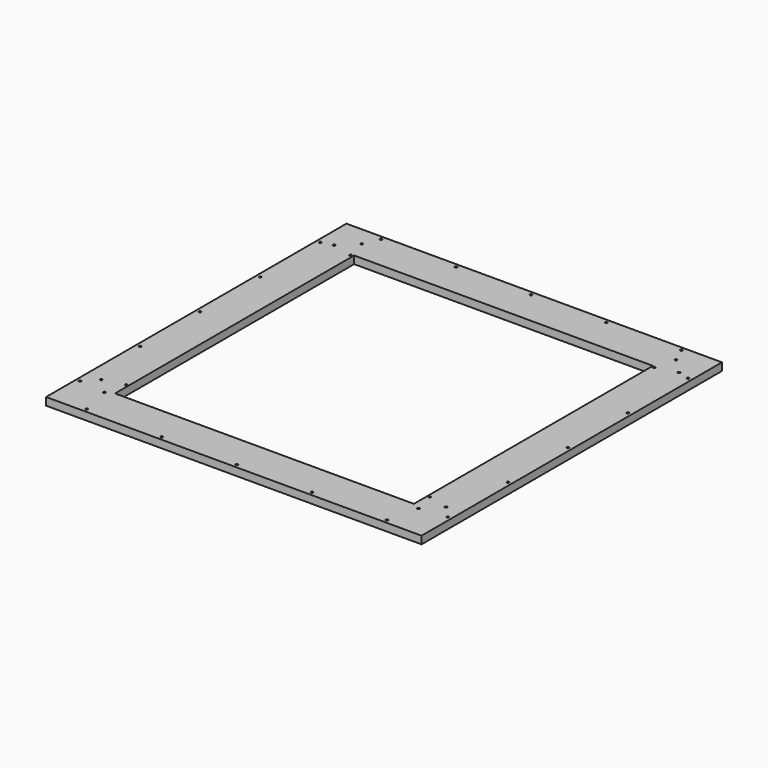
from build123d import *

# Parameters (mm, degrees)
F0_R     = 1.5
F0_W     = 390
F0_H     = 390
F0_W_2   = 10
F0_H_2   = 10
F1_DEPTH = 10


with BuildPart() as f1:
    # F0 (on Top) → F1 (new body)
    with BuildSketch(Plane.XY):
        Polygon((-10, -40), (-40, -40), (-40, -50), (440, -50), (440, 430), (430, 430), (430, -40), (400, -40), align=None)
        with Locations((-1, -45)):
            Circle(F0_R, mode=Mode.SUBTRACT)
        with Locations((97, -45)):
            Circle(F0_R, mode=Mode.SUBTRACT)
        with Locations((195, -45)):
            Circle(F0_R, mode=Mode.SUBTRACT)
        with Locations((293, -45)):
            Circle(F0_R, mode=Mode.SUBTRACT)
        with Locations((391, -45)):
            Circle(F0_R, mode=Mode.SUBTRACT)
        with Locations((435, -1)):
            Circle(F0_R, mode=Mode.SUBTRACT)
        with Locations((435, 97)):
            Circle(F0_R, mode=Mode.SUBTRACT)
        with Locations((435, 195)):
            Circle(F0_R, mode=Mode.SUBTRACT)
        with Locations((435, 293)):
            Circle(F0_R, mode=Mode.SUBTRACT)
        with Locations((435, 391)):
            Circle(F0_R, mode=Mode.SUBTRACT)
        Polygon((-40, 430), (-40, -40), (-10, -40), (400, -40), (430, -40), (430, 430), (400, 430), (-10, 430), align=None)
        with BuildLine():
            ThreePointArc((-8.5, -5), (-8.93934, -6.06066), (-10, -6.5))
            ThreePointArc((-10, -6.5), (-11.5, -5), (-10, -3.5))
            ThreePointArc((-10, -3.5), (-8.93934, -3.93934), (-8.5, -5))
        make_face(mode=Mode.SUBTRACT)
        with Locations((-30, 15)):
            Circle(F0_R, mode=Mode.SUBTRACT)
        with Locations((-3, 22)):
            Circle(F0_R, mode=Mode.SUBTRACT)
        with BuildLine():
            ThreePointArc((401.5, -5), (401.06066, -6.06066), (400, -6.5))
            ThreePointArc((400, -6.5), (398.5, -5), (400, -3.5))
            ThreePointArc((400, -3.5), (401.06066, -3.93934), (401.5, -5))
        make_face(mode=Mode.SUBTRACT)
        with Locations((393, 22)):
            Circle(F0_R, mode=Mode.SUBTRACT)
        with BuildLine():
            ThreePointArc((421.5, 15), (420, 13.5), (418.5, 15))
            ThreePointArc((418.5, 15), (420, 16.5), (421.5, 15))
        make_face(mode=Mode.SUBTRACT)
        with Locations((-30, 395)):
            Circle(F0_R, mode=Mode.SUBTRACT)
        with Locations((-3, 388)):
            Circle(F0_R, mode=Mode.SUBTRACT)
        with BuildLine():
            ThreePointArc((-10, 413.5), (-11.5, 415), (-10, 416.5))
            ThreePointArc((-10, 416.5), (-8.93934, 416.06066), (-8.5, 415))
            ThreePointArc((-8.5, 415), (-8.93934, 413.93934), (-10, 413.5))
        make_face(mode=Mode.SUBTRACT)
        with Locations((195, 195)):
            Rectangle(F0_W, F0_H, mode=Mode.SUBTRACT)
        with Locations((393, 388)):
            Circle(F0_R, mode=Mode.SUBTRACT)
        with BuildLine():
            ThreePointArc((421.5, 395), (420, 393.5), (418.5, 395))
            ThreePointArc((418.5, 395), (420, 396.5), (421.5, 395))
        make_face(mode=Mode.SUBTRACT)
        with BuildLine():
            ThreePointArc((400, 413.5), (398.5, 415), (400, 416.5))
            ThreePointArc((400, 416.5), (401.06066, 416.06066), (401.5, 415))
            ThreePointArc((401.5, 415), (401.06066, 413.93934), (400, 413.5))
        make_face(mode=Mode.SUBTRACT)
        with Locations((-45, -45)):
            Rectangle(F0_W_2, F0_H_2)
        Polygon((-50, -40), (-40, -40), (-40, 430), (-10, 430), (400, 430), (430, 430), (430, 435), (430, 440), (-50, 440), align=None)
        with Locations((-45, -1)):
            Circle(F0_R, mode=Mode.SUBTRACT)
        with Locations((-45, 97)):
            Circle(F0_R, mode=Mode.SUBTRACT)
        with Locations((-45, 195)):
            Circle(F0_R, mode=Mode.SUBTRACT)
        with Locations((-45, 293)):
            Circle(F0_R, mode=Mode.SUBTRACT)
        with Locations((-45, 391)):
            Circle(F0_R, mode=Mode.SUBTRACT)
        with Locations((-1, 435)):
            Circle(F0_R, mode=Mode.SUBTRACT)
        with Locations((97, 435)):
            Circle(F0_R, mode=Mode.SUBTRACT)
        with Locations((195, 435)):
            Circle(F0_R, mode=Mode.SUBTRACT)
        with Locations((293, 435)):
            Circle(F0_R, mode=Mode.SUBTRACT)
        with Locations((391, 435)):
            Circle(F0_R, mode=Mode.SUBTRACT)
        Polygon((440, 440), (430, 440), (430, 435), (430, 430), (440, 430), align=None)
    extrude(amount=F1_DEPTH)


solid = f1.part
